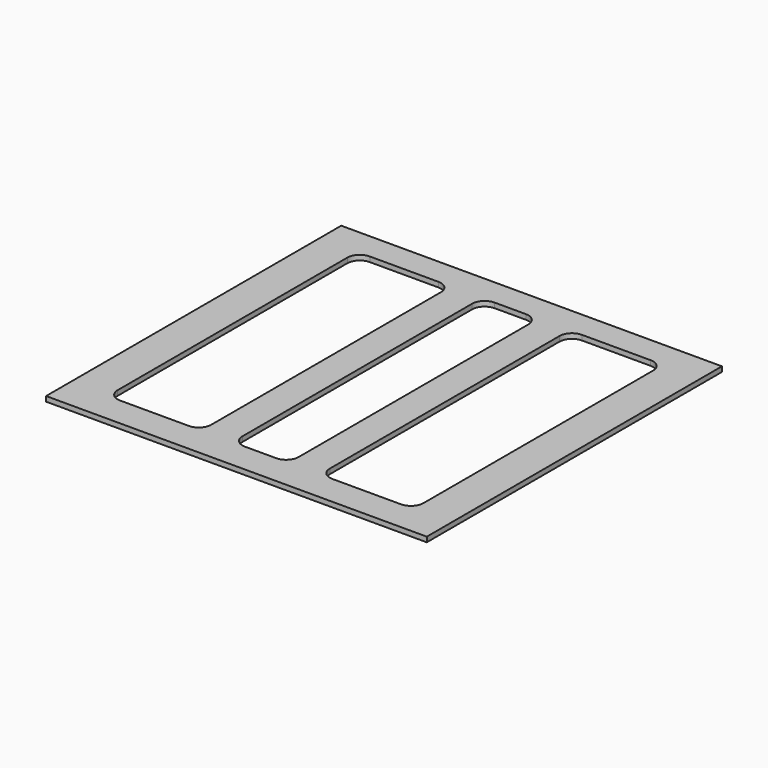
from build123d import *

# Parameters (mm, degrees)
F2_W     = 1220
F2_H     = 1182.2202801704
F3_DEPTH = 16


with BuildPart() as f3:
    # F2 (on face) → F3 (new body)
    with BuildSketch(Plane.XY):
        with Locations((46.1066241034, 100.4054844379)):
            Rectangle(F2_W, F2_H)
        with BuildLine():
            Line((-443.8933758966, -354.0387349576), (-443.8933758966, 565.9612650424))
            ThreePointArc((-443.8933758966, 565.9612650424), (-432.1776471441, 594.2455362899), (-403.8933758966, 605.9612650424))
            Line((-403.8933758966, 605.9612650424), (-183.8933758966, 605.9612650424))
            ThreePointArc((-183.8933758966, 605.9612650424), (-155.6091046491, 594.2455362899), (-143.8933758966, 565.9612650424))
            Line((-143.8933758966, 565.9612650424), (-143.8933758966, -354.0387349576))
            ThreePointArc((-143.8933758966, -354.0387349576), (-155.6091046491, -382.323006205), (-183.8933758966, -394.0387349576))
            Line((-183.8933758966, -394.0387349576), (-403.8933758966, -394.0387349576))
            ThreePointArc((-403.8933758966, -394.0387349576), (-432.1776471441, -382.323006205), (-443.8933758966, -354.0387349576))
        make_face(mode=Mode.SUBTRACT)
        with BuildLine():
            Line((-43.8933758966, -354.0387349576), (-43.8933758966, 565.9612650424))
            ThreePointArc((-43.8933758966, 565.9612650424), (-32.1776471441, 594.2455362899), (-3.8933758966, 605.9612650424))
            Line((-3.8933758966, 605.9612650424), (96.1066241034, 605.9612650424))
            ThreePointArc((96.1066241034, 605.9612650424), (124.3908953509, 594.2455362899), (136.1066241034, 565.9612650424))
            Line((136.1066241034, 565.9612650424), (136.1066241034, -354.0387349576))
            ThreePointArc((136.1066241034, -354.0387349576), (124.3908953509, -382.323006205), (96.1066241034, -394.0387349576))
            Line((96.1066241034, -394.0387349576), (-3.8933758966, -394.0387349576))
            ThreePointArc((-3.8933758966, -394.0387349576), (-32.1776471441, -382.323006205), (-43.8933758966, -354.0387349576))
        make_face(mode=Mode.SUBTRACT)
        with BuildLine():
            ThreePointArc((536.1066241034, -354.0387349576), (524.3908953509, -382.323006205), (496.1066241034, -394.0387349576))
            Line((496.1066241034, -394.0387349576), (276.1066241034, -394.0387349576))
            ThreePointArc((276.1066241034, -394.0387349576), (247.8223528559, -382.323006205), (236.1066241034, -354.0387349576))
            Line((236.1066241034, -354.0387349576), (236.1066241034, 565.9612650424))
            ThreePointArc((236.1066241034, 565.9612650424), (247.8223528559, 594.2455362899), (276.1066241034, 605.9612650424))
            Line((276.1066241034, 605.9612650424), (496.1066241034, 605.9612650424))
            ThreePointArc((496.1066241034, 605.9612650424), (524.3908953509, 594.2455362899), (536.1066241034, 565.9612650424))
            Line((536.1066241034, 565.9612650424), (536.1066241034, -354.0387349576))
        make_face(mode=Mode.SUBTRACT)
    extrude(amount=F3_DEPTH)


solid = f3.part
